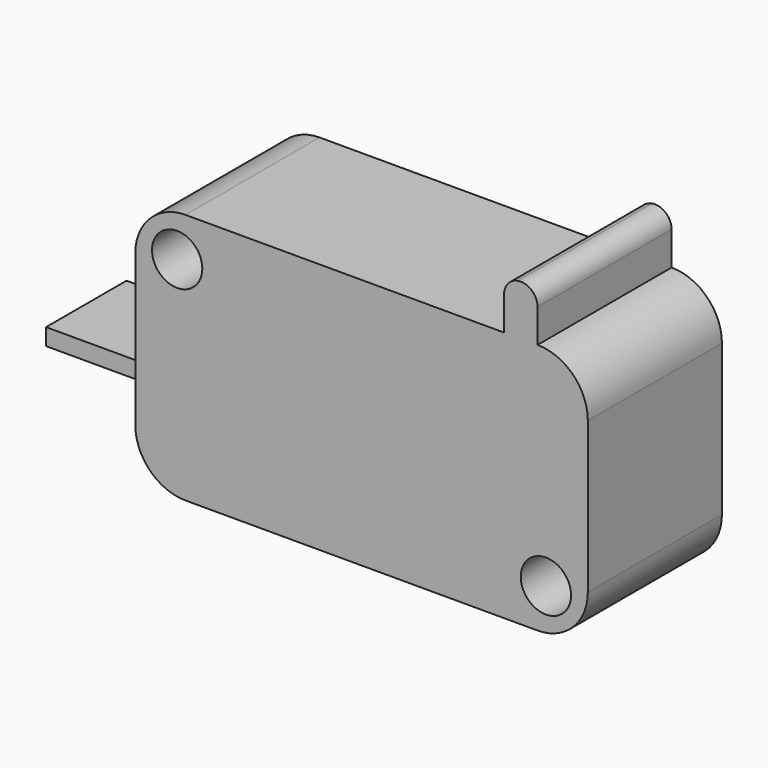
from build123d import *

# Parameters (mm, degrees)
F0_R     = 1.5
F1_DEPTH = 10
F0_W     = 10
F0_H     = 1
F2_DEPTH = 5
F3_W     = 6
F3_H     = 1
F4_DEPTH = 7
F5_DEPTH = 10


with BuildPart() as f1:
    # F0 (on Front) → F1 (new body)
    with BuildSketch(Plane.XZ):
        with BuildLine():
            Line((2.5, 7.5), (-10.5, 7.5))
            ThreePointArc((-10.5, 7.5), (-12.62132, 6.62132), (-13.5, 4.5))
            Line((-13.5, 4.5), (-13.5, -2.5))
            Line((-13.5, -2.5), (-13.5, -3.5))
            Line((-13.5, -3.5), (-13.5, -4.5))
            ThreePointArc((-13.5, -4.5), (-12.62132, -6.62132), (-10.5, -7.5))
            Line((-10.5, -7.5), (-2.5, -7.5))
            Line((-2.5, -7.5), (-1.5, -7.5))
            Line((-1.5, -7.5), (10.5, -7.5))
            ThreePointArc((10.5, -7.5), (12.62132, -6.62132), (13.5, -4.5))
            Line((13.5, -4.5), (13.5, 4.5))
            ThreePointArc((13.5, 4.5), (12.62132, 6.62132), (10.5, 7.5))
            Line((10.5, 7.5), (8.5, 7.5))
            Line((8.5, 7.5), (3.5, 7.5))
            Line((3.5, 7.5), (2.5, 7.5))
        make_face()
        with Locations((11, -5)):
            Circle(F0_R, mode=Mode.SUBTRACT)
        with Locations((-11, 5)):
            Circle(F0_R, mode=Mode.SUBTRACT)
    extrude(amount=F1_DEPTH)

    # F3 (on face) → F4 (join)
    with BuildSketch(Plane(origin=(-13.5, 0, 0), x_dir=(0, -1, 0), z_dir=(-1, 0, 0))):
        with Locations((4.9, -3)):
            Rectangle(F3_W, F3_H)
    extrude(amount=F4_DEPTH)

    # F0 (on Front) → F5 (join)
    with BuildSketch(Plane.XZ):
        with BuildLine():
            Line((8.5, 9.5), (8.5, 7.5))
            Line((8.5, 7.5), (10.5, 7.5))
            Line((10.5, 7.5), (10.5, 9.5))
            ThreePointArc((10.5, 9.5), (9.5, 8.5), (8.5, 9.5))
        make_face()
        with BuildLine():
            Line((10.5, 9.5), (8.5, 9.5))
            ThreePointArc((8.5, 9.5), (9.5, 8.5), (10.5, 9.5))
        make_face()
        with BuildLine():
            ThreePointArc((9.333333, 10.486013), (8.736237, 10.145497), (8.5, 9.5))
            Line((8.5, 9.5), (10.5, 9.5))
            ThreePointArc((10.5, 9.5), (10.145497, 10.263763), (9.333333, 10.486013))
        make_face()
    extrude(amount=F5_DEPTH)


with BuildPart() as f2:
    # F0 (on Front) → F2 (new body)
    with BuildSketch(Plane.XZ):
        with Locations((-7.5, -10)):
            Rectangle(F0_W, F0_H)
        Polygon((-1.5, -7.5), (-2.5, -7.5), (-2.5, -9.5), (-2.5, -10.5), (-1.5, -10.5), align=None)
    extrude(amount=F2_DEPTH)


solid = Compound([f1.part, f2.part])
